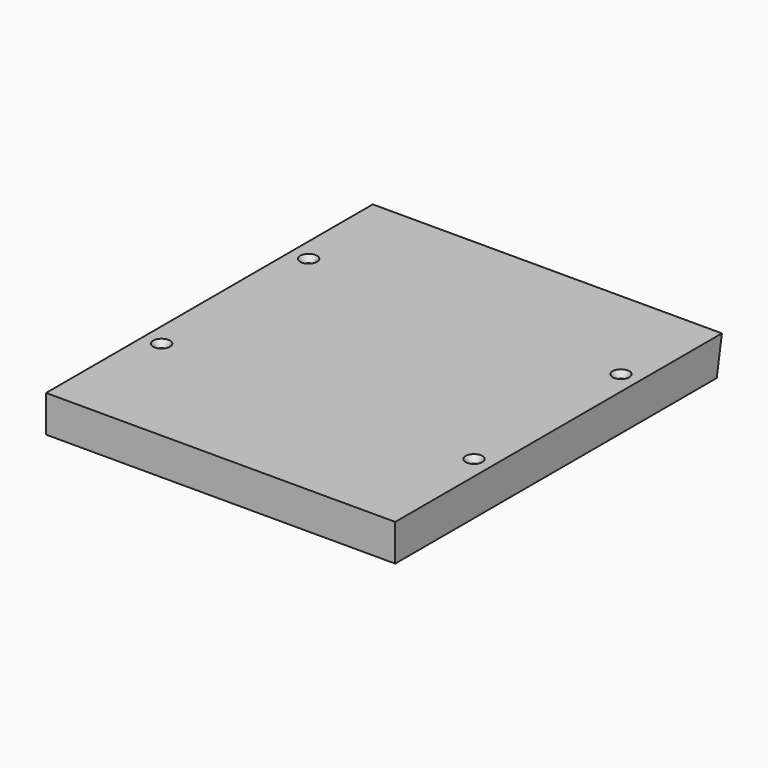
from build123d import *

# Parameters (mm, degrees)
F0_W           = 171
F0_H           = 200
F1_DEPTH       = 18
F3_DEPTH       = 171.001
F5_D           = 3
F5_CSINK_D     = 8.2
F5_CSINK_ANGLE = 90
F6_D           = 3
F6_CSINK_D     = 8.2
F6_CSINK_ANGLE = 90


with BuildPart() as f1:
    # F0 (on Top) → F1 (new body)
    with BuildSketch(Plane.XY):
        Rectangle(F0_W, F0_H)
    extrude(amount=F1_DEPTH)

    # F2 (on face) → F3 (cut, through all)
    with BuildSketch(Plane.YZ.offset(85.5)):
        Polygon((100, 0), (100, 18), (96.826114, 0), align=None)
    extrude(amount=-F3_DEPTH, mode=Mode.SUBTRACT)

    # F5 (through all)
    with Locations(Plane.XY.offset(18)):
        with Locations((-76.5, 49.466), (76.5, 49.466)):
            CounterSinkHole(F5_D / 2, F5_CSINK_D / 2, counter_sink_angle=F5_CSINK_ANGLE)

    # F6 (through all)
    with Locations(Plane.XY.offset(18)):
        with Locations((-76.5, -40.534), (76.5, -40.534)):
            CounterSinkHole(F6_D / 2, F6_CSINK_D / 2, counter_sink_angle=F6_CSINK_ANGLE)


solid = f1.part
